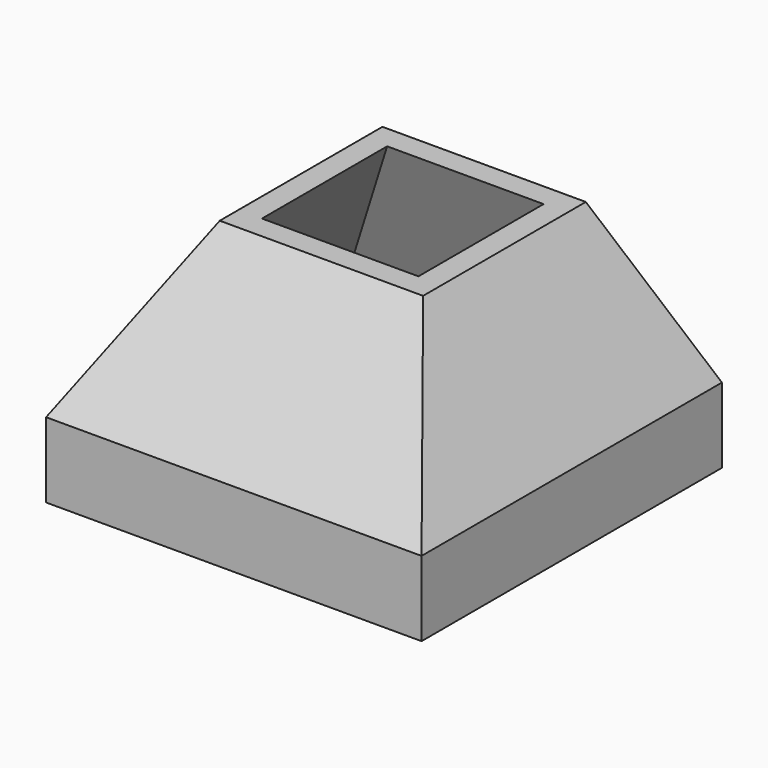
from build123d import *

# Parameters (mm, degrees)
F0_W     = 30.48
F0_H     = 30.48
F0_W_2   = 26.67
F0_H_2   = 26.67
F1_DEPTH = 2.286
F2_DEPTH = 3.81


with BuildPart() as f1:
    # F0 (on Top) → F1 (new body)
    with BuildSketch(Plane.XY):
        Rectangle(F0_W, F0_H)
        Rectangle(F0_W_2, F0_H_2, mode=Mode.SUBTRACT)
    extrude(amount=-F1_DEPTH)

    # F0 (on Top) → F2 (join)
    with BuildSketch(Plane.XY):
        Rectangle(F0_W, F0_H)
        Rectangle(F0_W_2, F0_H_2, mode=Mode.SUBTRACT)
    extrude(amount=F2_DEPTH)

    # F5 (on face) → F6 section 0
    with BuildSketch(Plane.XY.offset(3.81)):
        Polygon((-13.335, 13.335), (-15.24, 15.24), (-15.24, -15.24), (-13.335, -13.335), align=None)
    # F4 (on offset) → F6 section 1
    with BuildSketch(Plane.XY.offset(16.51)):
        Polygon((-6.35, -4.445), (-6.35, 8.255), (-8.255, 10.16), (-8.255, -6.35), align=None)
    loft()

    # F5 (on face) → F7 section 0
    with BuildSketch(Plane.XY.offset(3.81)):
        Polygon((-15.24, -15.24), (15.24, -15.24), (13.335, -13.335), (-13.335, -13.335), align=None)
    # F4 (on offset) → F7 section 1
    with BuildSketch(Plane.XY.offset(16.51)):
        Polygon((8.255, -6.35), (6.35, -4.445), (-6.35, -4.445), (-8.255, -6.35), align=None)
    loft()

    # F5 (on face) → F8 section 0
    with BuildSketch(Plane.XY.offset(3.81)):
        Polygon((15.24, -15.24), (15.24, 15.24), (13.335, 13.335), (13.335, -13.335), align=None)
    # F4 (on offset) → F8 section 1
    with BuildSketch(Plane.XY.offset(16.51)):
        Polygon((8.255, 10.16), (6.35, 8.255), (6.35, -4.445), (8.255, -6.35), align=None)
    loft()

    # F5 (on face) → F9 section 0
    with BuildSketch(Plane.XY.offset(3.81)):
        Polygon((13.335, 13.335), (15.24, 15.24), (-15.24, 15.24), (-13.335, 13.335), align=None)
    # F4 (on offset) → F9 section 1
    with BuildSketch(Plane.XY.offset(16.51)):
        Polygon((-6.35, 8.255), (6.35, 8.255), (8.255, 10.16), (-8.255, 10.16), align=None)
    loft()


solid = f1.part
